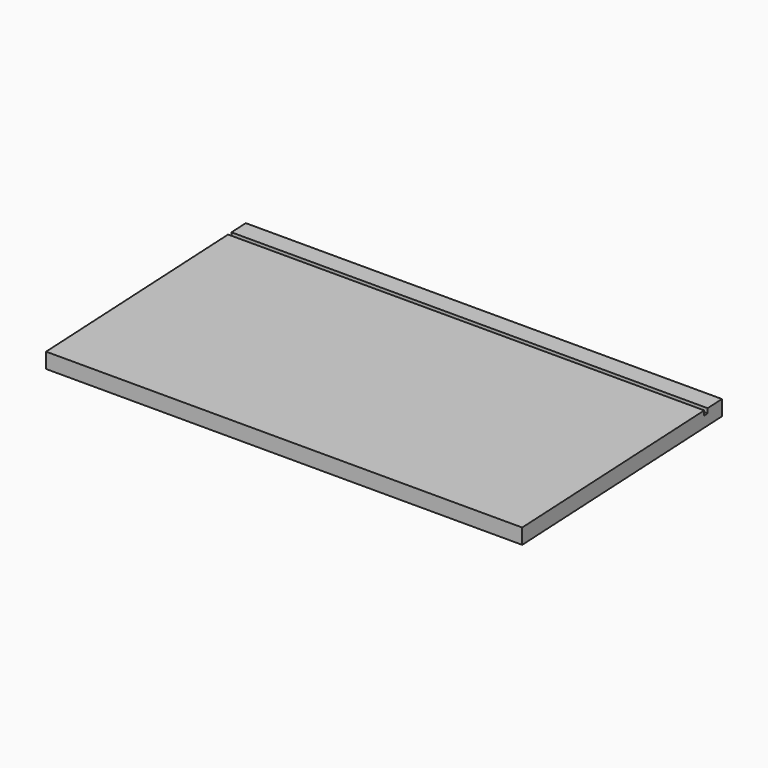
from build123d import *

# Parameters (mm, degrees)
F1_DEPTH = 20
F2_W     = 623.314447
F2_H     = 6
F3_DEPTH = 6


with BuildPart() as f1:
    # F0 (on Top) → F1 (new body)
    with BuildSketch(Plane.XY):
        Polygon((-302.341208, -174.760169), (320.658792, -174.760169), (302.341208, 174.760169), (-320.658792, 174.760169), align=None)
    extrude(amount=F1_DEPTH)

    # F2 (on face) → F3 (cut)
    with BuildSketch(Plane.XY.offset(20)):
        with Locations((-7.691374, 146.760169)):
            Rectangle(F2_W, F2_H)
    extrude(amount=-F3_DEPTH, mode=Mode.SUBTRACT)


solid = f1.part
